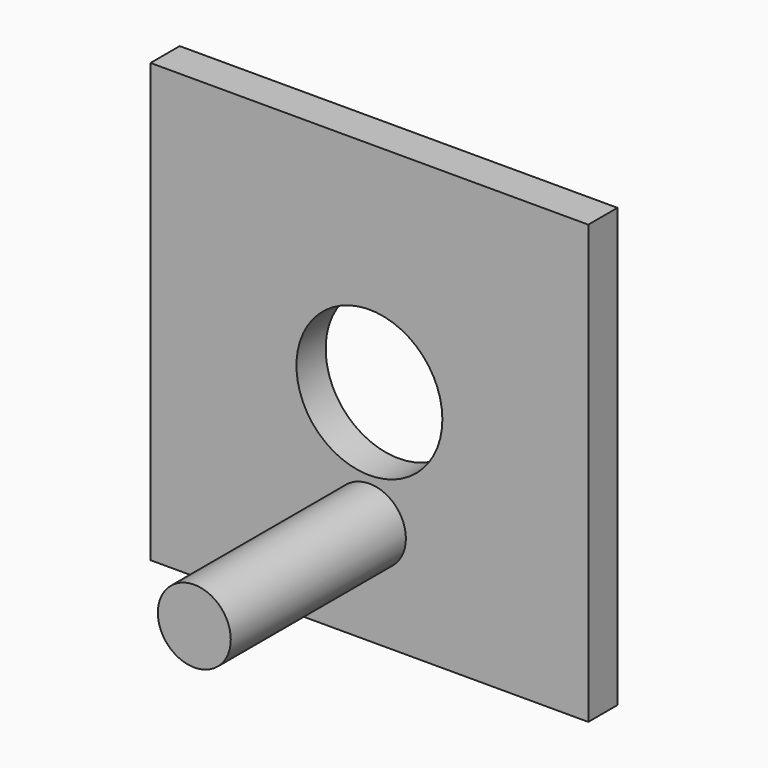
from build123d import *

# Parameters (mm, degrees)
F0_W     = 76.2
F0_H     = 76.2
F1_DEPTH = 6.35
F2_R     = 12.7
F3_DEPTH = 25.4
F4_R     = 6.35
F5_DEPTH = 38.1


with BuildPart() as f1:
    # F0 (on Front) → F1 (new body)
    with BuildSketch(Plane.XZ):
        with Locations((38.1, 38.1)):
            Rectangle(F0_W, F0_H)
    extrude(amount=F1_DEPTH)

    # F2 (on face) → F3 (cut)
    with BuildSketch(Plane.XZ.offset(6.35)):
        with Locations((38.1, 38.1)):
            Circle(F2_R)
    extrude(amount=-F3_DEPTH, mode=Mode.SUBTRACT)

    # F4 (on face) → F5 (join)
    with BuildSketch(Plane.XZ.offset(6.35)):
        with Locations((38.1, 17.78)):
            Circle(F4_R)
    extrude(amount=F5_DEPTH)


solid = f1.part
